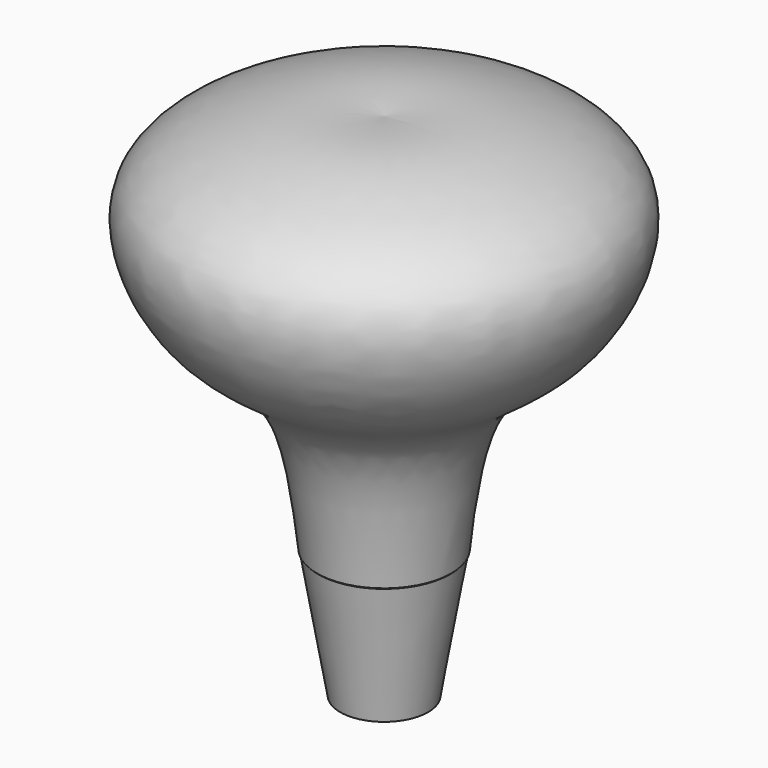
from build123d import *

# Parameters (mm, degrees)
F0_R = 5
F2_R = 7.5


with BuildPart() as f3:
    # F0 (on Top) → F3 section 0
    with BuildSketch(Plane.XY):
        Circle(F0_R)
    # F2 (on offset) → F3 section 1
    with BuildSketch(Plane.XY.offset(14.6)):
        Circle(F2_R)
    loft()


with BuildPart() as f5:
    # F4 (on Front) → F5 (revolve)
    with BuildSketch(Plane.XZ):
        with BuildLine():
            add(Edge.make_bspline(
                [(0, 57.9829066992), (5.6178076025, 58.6288966363), (12.5826394099, 58.1817319305), (27.5590300042, 51.8595817104), (20.9634131754, 36.0231048551), (9.3766778782, 31.7343283075), (8.3340866913, 20.7486450549), (7.615508046, 14.7233176976)],
                knots=[0, 0, 0, 0, 0.2019072586, 0.3959912186, 0.5954082633, 0.7801289984, 1, 1, 1, 1], degree=3))
            Line((0, 57.9829066992), (0, 14.7233176976))
            Line((0, 14.7233176976), (7.615508046, 14.7233176976))
        make_face()
    revolve(axis=Axis((0, 0, 37.2877898626), (0, 0, 1)))


solid = Compound([f3.part, f5.part])
